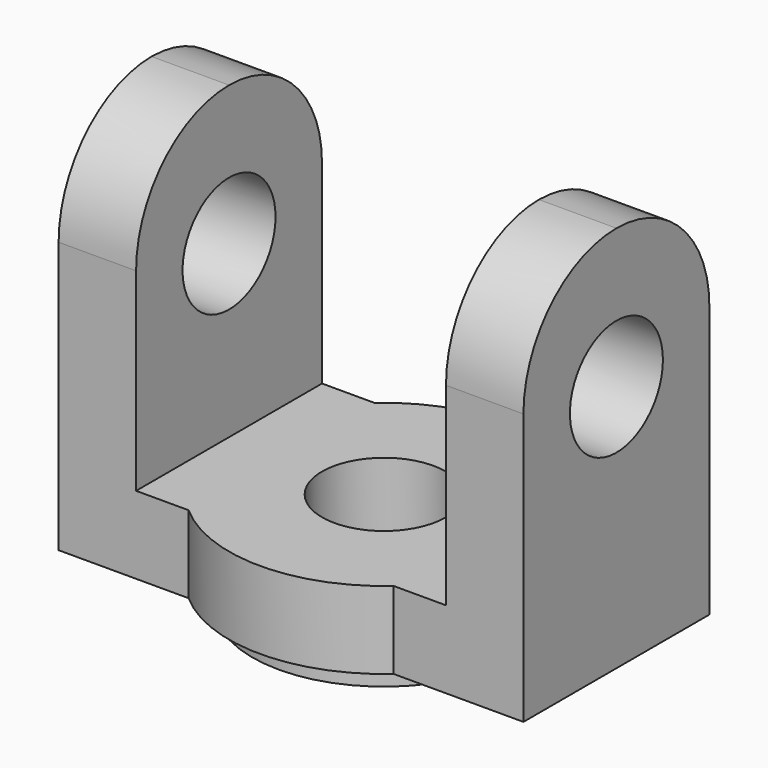
from build123d import *

# Parameters (mm, degrees)
F0_R     = 20
F0_R_2   = 8
F1_DEPTH = 10
F2_R     = 17
F2_R_2   = 8
F3_DEPTH = 3
F5_DEPTH = 15
F6_R     = 8
F7_DEPTH = 25
F8_R     = 7.5
F9_DEPTH = 30


with BuildPart() as f1:
    # F0 (on Top) → F1 (new body)
    with BuildSketch(Plane.XY):
        Circle(F0_R)
        Circle(F0_R_2, mode=Mode.SUBTRACT)
    extrude(amount=F1_DEPTH)

    # F2 (on Top) → F3 (join)
    with BuildSketch(Plane.XY):
        Circle(F2_R)
        Circle(F2_R_2, mode=Mode.SUBTRACT)
    extrude(amount=-F3_DEPTH)

    # F4 (on Front) → F5 (join, symmetric)
    with BuildSketch(Plane.XZ):
        Polygon((-30, 50), (-30, 0), (30, 0), (30, 50), (20, 50), (20, 10), (-20, 10), (-20, 50), align=None)
    extrude(amount=F5_DEPTH, both=True)

    # F6 (on face) → F7 (cut)
    with BuildSketch(Plane.XY.offset(10)):
        Circle(F6_R)
    extrude(amount=-F7_DEPTH, mode=Mode.SUBTRACT)

    # F8 (on Right) → F9 (cut, symmetric)
    with BuildSketch(Plane.YZ):
        with Locations((0, 32)):
            Circle(F8_R)
        with BuildLine():
            ThreePointArc((-15, 35), (-10.606602, 45.606602), (0, 50))
            Line((0, 50), (-15, 50))
            Line((-15, 50), (-15, 35))
        make_face()
        with BuildLine():
            ThreePointArc((0, 50), (10.606602, 45.606602), (15, 35))
            Line((15, 35), (15, 50))
            Line((15, 50), (0, 50))
        make_face()
    extrude(amount=F9_DEPTH, both=True, mode=Mode.SUBTRACT)


solid = f1.part
